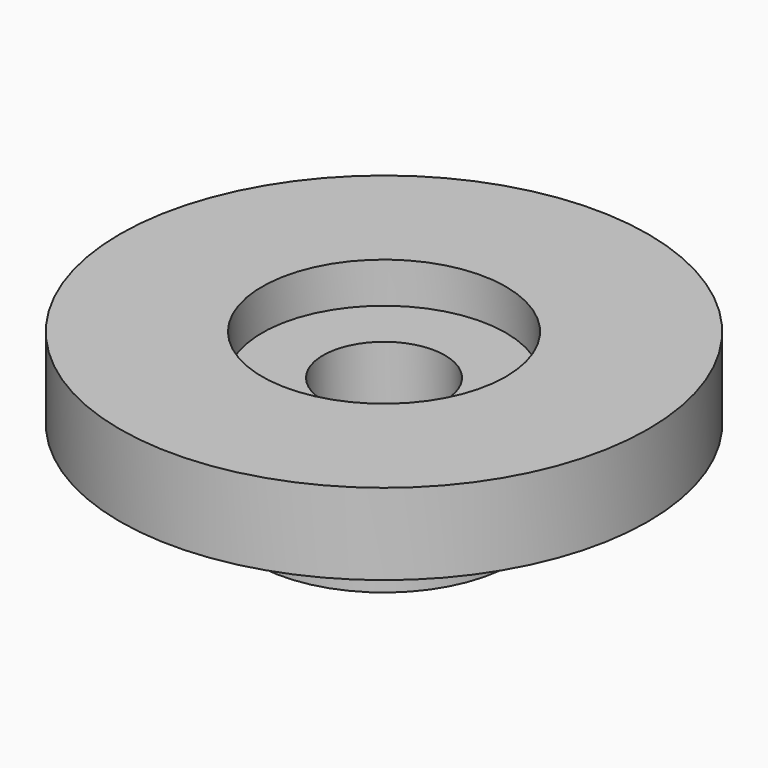
from build123d import *

# Parameters (mm, degrees)
F0_R     = 3.175
F1_DEPTH = 2
F2_R     = 6.5
F3_DEPTH = 2
F4_R     = 3
F5_DEPTH = 1
F6_R     = 1.5
F7_DEPTH = 25
F8_R     = 4.15
F8_R_2   = 3.175
F9_DEPTH = 1


with BuildPart() as f1:
    # F0 (on Top) → F1 (new body)
    with BuildSketch(Plane.XY):
        Circle(F0_R)
    extrude(amount=F1_DEPTH)

    # F2 (on face) → F3 (join)
    with BuildSketch(Plane.XY.offset(2)):
        Circle(F2_R)
    extrude(amount=F3_DEPTH)

    # F4 (on face) → F5 (cut)
    with BuildSketch(Plane.XY.offset(4)):
        Circle(F4_R)
    extrude(amount=-F5_DEPTH, mode=Mode.SUBTRACT)

    # F6 (on face) → F7 (cut)
    with BuildSketch(Plane(origin=(0, 0, 0), x_dir=(1, 0, 0), z_dir=(0, 0, -1))):
        Circle(F6_R)
    extrude(amount=-F7_DEPTH, mode=Mode.SUBTRACT)

    # F8 (on face) → F9 (join)
    with BuildSketch(Plane(origin=(0, 0, 2), x_dir=(1, 0, 0), z_dir=(0, 0, -1))):
        Circle(F8_R)
        Circle(F8_R_2, mode=Mode.SUBTRACT)
    extrude(amount=F9_DEPTH)


solid = f1.part
